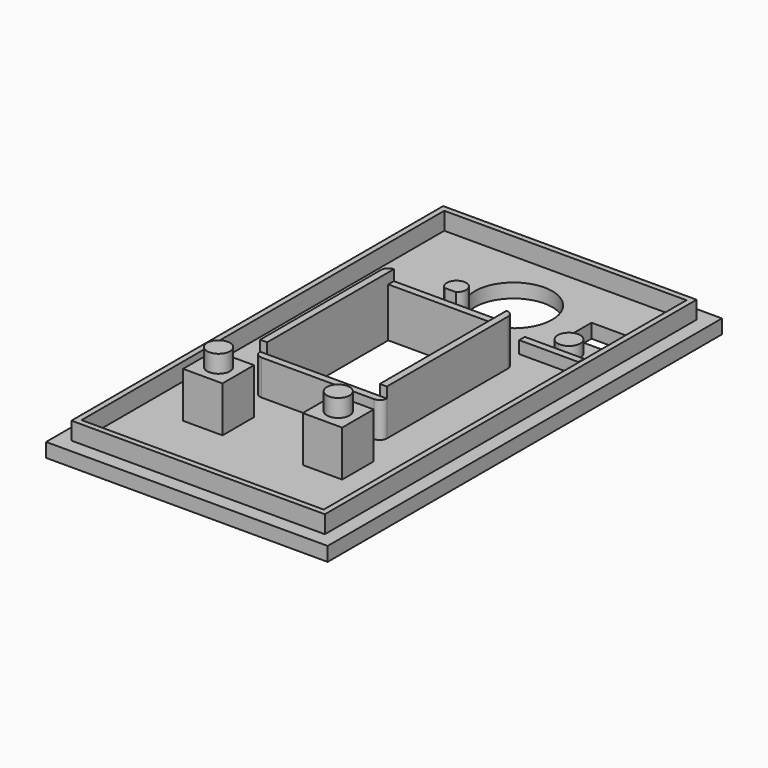
from build123d import *

# Parameters (mm, degrees)
SKETCH_W        = 40
SKETCH_H        = 70
SKETCH_R        = 5.5
SKETCH_W_2      = 16
SKETCH_H_2      = 21.5
PAD_DEPTH       = 2
SKETCH001_W     = 5.6
SKETCH001_H     = 5.6
SKETCH001_W_2   = 16
SKETCH001_H_2   = 21.5
PAD001_DEPTH    = 6.5
SKETCH002_R     = 1.625
PAD002_DEPTH    = 2.5
SKETCH003_W     = 16
SKETCH003_H     = 1
SKETCH003_W_2   = 18
POCKET_DEPTH    = 1.5
SKETCH004_W     = 5.3
SKETCH004_H     = 4.3
POCKET001_DEPTH = 2.001
SKETCH005_R     = 1.6
SKETCH005_W     = 8.4
SKETCH005_H     = 1
PAD003_DEPTH    = 1.75
SKETCH006_W     = 36
SKETCH006_H     = 66
SKETCH006_W_2   = 34.4
SKETCH006_H_2   = 64.4
PAD004_DEPTH    = 2.5


with BuildPart() as part:
    # Sketch → Pad (new body)
    with BuildSketch(Plane.XY):
        Rectangle(SKETCH_W, SKETCH_H)
        with Locations((0, 23)):
            Circle(SKETCH_R, mode=Mode.SUBTRACT)
        Rectangle(SKETCH_W_2, SKETCH_H_2, mode=Mode.SUBTRACT)
    extrude(amount=PAD_DEPTH)

    # Sketch001 (on Face11 of Pad) → Pad001 (join)
    with BuildSketch(Plane.XY.offset(2)):
        with Locations((-8.5, -18.75)):
            Rectangle(SKETCH001_W, SKETCH001_H)
        with Locations((8.5, -18.75)):
            Rectangle(SKETCH001_W, SKETCH001_H)
        with BuildLine():
            Line((-8, -11.75), (8, -11.75))
            ThreePointArc((9, -10.75), (8.707107, -11.457107), (8, -11.75))
            Line((9, -10.75), (9, 10.75))
            ThreePointArc((8, 11.75), (8.707107, 11.457107), (9, 10.75))
            Line((8, 11.75), (0.8, 11.75))
            ThreePointArc((0.8, 11.75), (0, 14.243313), (-0.8, 11.75))
            Line((-0.8, 11.75), (-8, 11.75))
            ThreePointArc((-9, 10.75), (-8.707107, 11.457107), (-8, 11.75))
            Line((-9, 10.75), (-9, -10.75))
            ThreePointArc((-8, -11.75), (-8.707107, -11.457107), (-9, -10.75))
        make_face()
        Rectangle(SKETCH001_W_2, SKETCH001_H_2, mode=Mode.SUBTRACT)
    extrude(amount=PAD001_DEPTH)

    # Sketch002 (on Face34 of Pad001) → Pad002 (join)
    with BuildSketch(Plane.XY.offset(8.5)):
        with Locations((-8.5, -18.75)):
            Circle(SKETCH002_R)
        with Locations((8.5, -18.75)):
            Circle(SKETCH002_R)
    extrude(amount=PAD002_DEPTH)

    # Sketch003 (on Face35 of Pad002) → Pocket (cut)
    with BuildSketch(Plane.XY.offset(8.5)):
        with Locations((0, 11.25)):
            Rectangle(SKETCH003_W, SKETCH003_H)
        with Locations((0, -11.25)):
            Rectangle(SKETCH003_W_2, SKETCH003_H)
    extrude(amount=-POCKET_DEPTH, mode=Mode.SUBTRACT)

    # Sketch004 (on Face5 of Pocket) → Pocket001 (cut, through all)
    with BuildSketch(Plane.XY.offset(2)):
        with Locations((12, 23)):
            Rectangle(SKETCH004_W, SKETCH004_H)
    extrude(amount=-POCKET001_DEPTH, mode=Mode.SUBTRACT)

    # Sketch005 (on Face5 of Pocket001) → Pad003 (join)
    with BuildSketch(Plane.XY.offset(2)):
        with Locations((12, 17.85)):
            Circle(SKETCH005_R)
        with Locations((12, 14.75)):
            Rectangle(SKETCH005_W, SKETCH005_H)
    extrude(amount=PAD003_DEPTH)

    # Sketch006 (on Face5 of Pad003) → Pad004 (join)
    with BuildSketch(Plane.XY.offset(2)):
        Rectangle(SKETCH006_W, SKETCH006_H)
        Rectangle(SKETCH006_W_2, SKETCH006_H_2, mode=Mode.SUBTRACT)
    extrude(amount=PAD004_DEPTH)


solid = part.part
